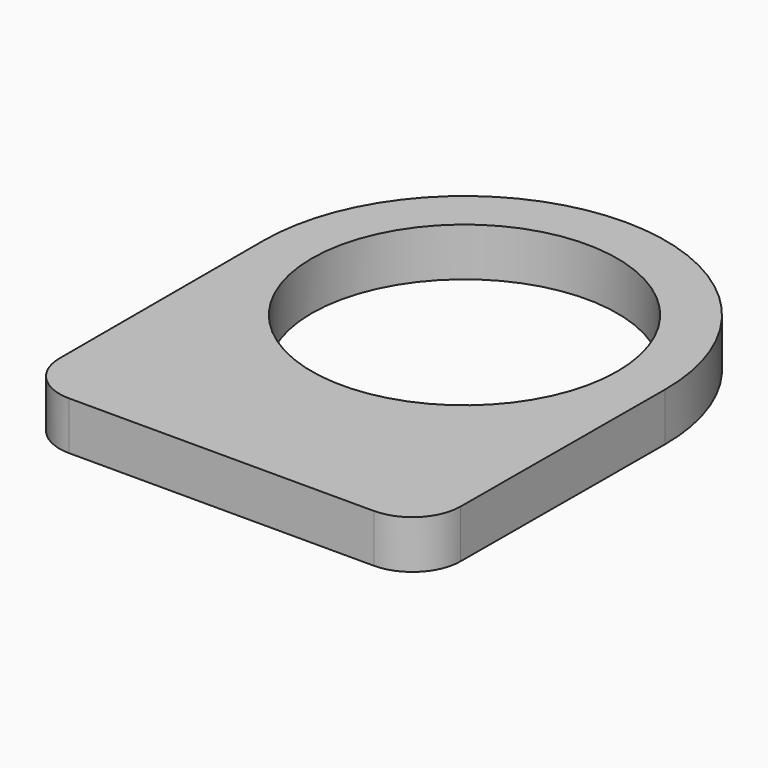
from build123d import *

# Parameters (mm, degrees)
F0_R     = 15.841056
F1_DEPTH = 5


with BuildPart() as f1:
    # F0 (on Top) → F1 (new body)
    with BuildSketch(Plane.XY):
        with BuildLine():
            Line((20.728503, -26.431861), (20.840867, -0.088895))
            ThreePointArc((20.840867, -0.088895), (0.044448, 20.841009), (-20.841056, 0))
            Line((-20.841056, 0), (-20.841056, -26.410534))
            ThreePointArc((-20.841056, -26.410534), (-19.37659, -29.946068), (-15.841056, -31.410534))
            Line((-15.841056, -31.410534), (15.728548, -31.410534))
            ThreePointArc((15.728548, -31.410534), (19.256534, -29.9536), (20.728503, -26.431861))
        make_face()
        Circle(F0_R, mode=Mode.SUBTRACT)
    extrude(amount=F1_DEPTH)


solid = f1.part
